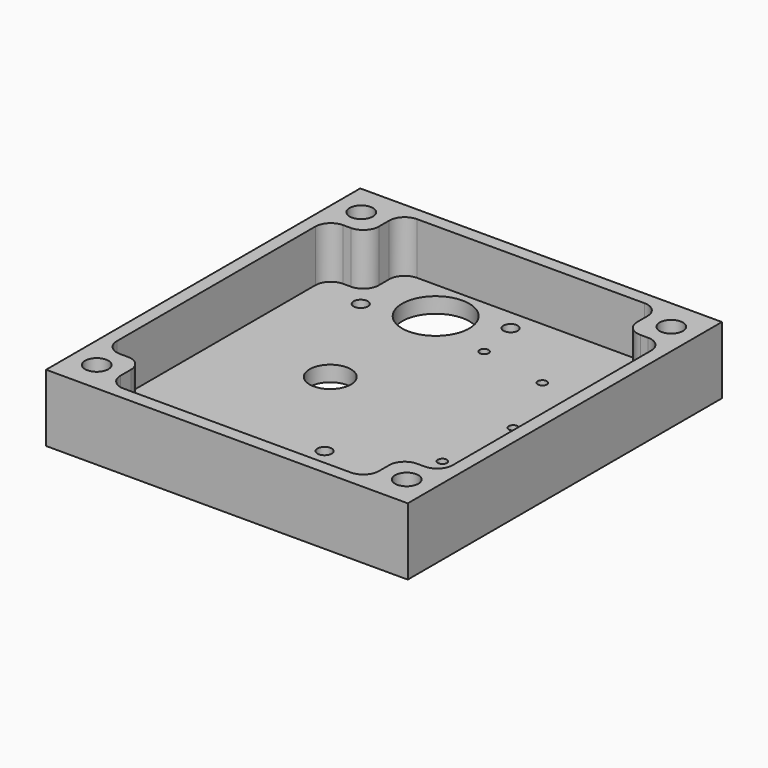
from build123d import *

# Parameters (mm, degrees)
F0_W     = 70
F0_H     = 76
F0_R     = 2.25
F0_R_2   = 1.375
F0_R_3   = 0.875
F0_R_4   = 4
F0_R_5   = 6.5
F1_DEPTH = 13
F2_R     = 1.375
F2_R_2   = 0.875
F2_R_3   = 4
F2_W     = 50
F2_H     = 8.5
F3_DEPTH = 10
F4_R     = 3


with BuildPart() as f1:
    # F0 (on Top) → F1 (new body)
    with BuildSketch(Plane.XY):
        Rectangle(F0_W, F0_H)
        with Locations((-30, -32)):
            Circle(F0_R, mode=Mode.SUBTRACT)
        with Locations((30, -32)):
            Circle(F0_R, mode=Mode.SUBTRACT)
        with Locations((2.5, -17.5)):
            Circle(F0_R_2, mode=Mode.SUBTRACT)
        with Locations((18.5, -9)):
            Circle(F0_R_3, mode=Mode.SUBTRACT)
        with Locations((-12, 2)):
            Circle(F0_R_4, mode=Mode.SUBTRACT)
        with Locations((-23.325496177, 23.5334982232)):
            Circle(F0_R_2, mode=Mode.SUBTRACT)
        with Locations((-30, 32)):
            Circle(F0_R, mode=Mode.SUBTRACT)
        with Locations((-12, 27.5)):
            Circle(F0_R_5, mode=Mode.SUBTRACT)
        with Locations((-0.674503823, 31.4665017768)):
            Circle(F0_R_2, mode=Mode.SUBTRACT)
        with Locations((20, 6.25)):
            Circle(F0_R_3, mode=Mode.SUBTRACT)
        with Locations((0.9756591943, 23)):
            Circle(F0_R_3, mode=Mode.SUBTRACT)
        with Locations((14.25, 20.5)):
            Circle(F0_R_3, mode=Mode.SUBTRACT)
        with Locations((30, 32)):
            Circle(F0_R, mode=Mode.SUBTRACT)
    extrude(amount=F1_DEPTH)

    # F2 (on face) → F3 (cut)
    with BuildSketch(Plane.XY.offset(13)):
        with BuildLine():
            Line((-25, 27), (-32.5, 27))
            Line((-32.5, 27), (-32.5, -27))
            Line((-32.5, -27), (-25, -27))
            Line((-25, -27), (25, -27))
            Line((25, -27), (32.5, -27))
            Line((32.5, -27), (32.5, 27))
            Line((32.5, 27), (25, 27))
            Line((25, 27), (-5.5192593016, 27))
            ThreePointArc((-5.5192593016, 27), (-12, 21), (-18.4807406984, 27))
            Line((-18.4807406984, 27), (-25, 27))
        make_face()
        with Locations((2.5, -17.5)):
            Circle(F2_R, mode=Mode.SUBTRACT)
        with Locations((18.5, -9)):
            Circle(F2_R_2, mode=Mode.SUBTRACT)
        with Locations((-12, 2)):
            Circle(F2_R_3, mode=Mode.SUBTRACT)
        with Locations((-23.325496177, 23.5334982232)):
            Circle(F2_R, mode=Mode.SUBTRACT)
        with Locations((20, 6.25)):
            Circle(F2_R_2, mode=Mode.SUBTRACT)
        with Locations((0.9756591943, 23)):
            Circle(F2_R_2, mode=Mode.SUBTRACT)
        with Locations((14.25, 20.5)):
            Circle(F2_R_2, mode=Mode.SUBTRACT)
        with BuildLine():
            Line((-25, 35.5), (-25, 27))
            Line((-25, 27), (-18.4807406984, 27))
            ThreePointArc((-18.4807406984, 27), (-12.2501853916, 33.99518339), (-5.5, 27.5))
            ThreePointArc((-5.5, 27.5), (-5.50481661, 27.2498146084), (-5.5192593016, 27))
            Line((-5.5192593016, 27), (25, 27))
            Line((25, 27), (25, 35.5))
            Line((25, 35.5), (-25, 35.5))
        make_face()
        with Locations((-0.674503823, 31.4665017768)):
            Circle(F2_R, mode=Mode.SUBTRACT)
        with Locations((0, -31.25)):
            Rectangle(F2_W, F2_H)
    extrude(amount=-F3_DEPTH, mode=Mode.SUBTRACT)

    # F4
    f4_edges = [f1.edges().sort_by_distance(p)[0] for p in [
        (-25, 27, 8),
        (25, 27, 8),
        (-25, -27, 8),
        (25, -27, 8),
        (32.5, -27, 8),
        (32.5, 27, 8),
        (25, 35.5, 8),
        (-25, 35.5, 8),
        (-32.5, 27, 8),
        (-32.5, -27, 8),
        (-25, -35.5, 8),
        (25, -35.5, 8),
    ]]
    fillet(f4_edges, radius=F4_R)


solid = f1.part
